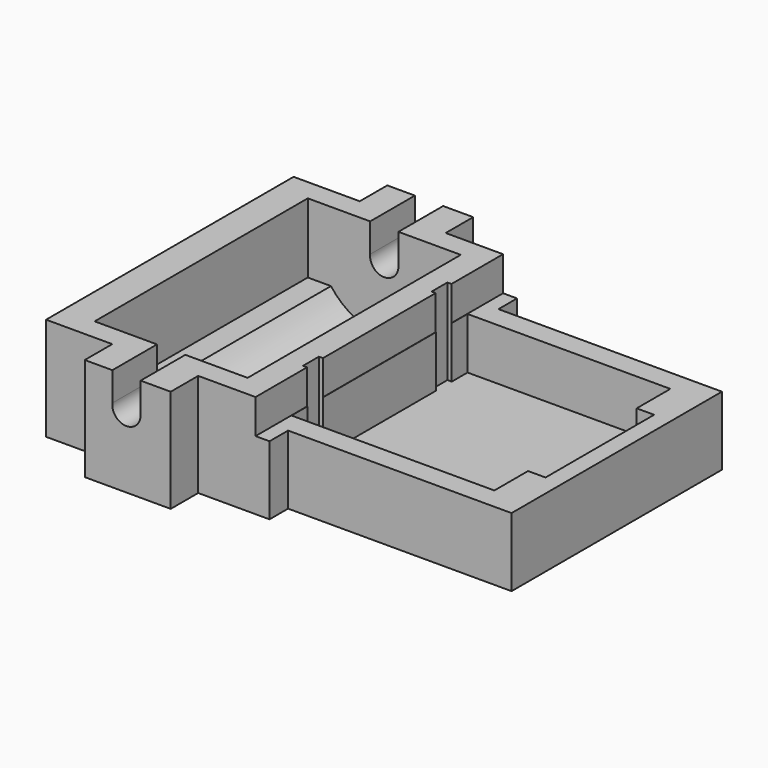
from build123d import *

# Parameters (mm, degrees)
F0_W          = 132.08
F0_H          = 111.76
F1_DEPTH      = 30.48
F3_DEPTH      = 25.4
F5_DEPTH      = 39.37
F5_DEPTH_BACK = 39.37
F7_DEPTH      = 127
F7_DEPTH_BACK = 127
F8_W          = 70.1737586008
F8_H          = 10.16
F9_DEPTH      = 124.52238
F10_W         = 219.0220057964
F10_H         = 191.3975924253
F11_DEPTH     = 40.60273


with BuildPart() as f1:
    # F0 (on Top) → F1 (new body)
    with BuildSketch(Plane.XY):
        Rectangle(F0_W, F0_H)
    extrude(amount=F1_DEPTH)

    # F2 (on face) → F3 (cut)
    with BuildSketch(Plane.XY.offset(30.48)):
        Polygon((55.88, 32.512), (-4.064, 32.512), (-4.064, 26.67), (-5.334, 26.67), (-5.334, 20.828), (-4.064, 20.828), (-4.064, -20.828), (-5.334, -20.828), (-5.334, -26.67), (-4.064, -26.67), (-4.064, -32.512), (55.88, -32.512), (55.88, -20.066), (61.0470063984, -20.066), (61.0470063984, 20.066), (55.88, 20.066), align=None)
    extrude(amount=-F3_DEPTH, mode=Mode.SUBTRACT)

    # F4 (on Front) → F5 (cut, two sides)
    with BuildSketch(Plane.XZ) as f5_sk:
        with BuildLine():
            Line((-56.7663048146, 9.8806022625), (-49.9083048146, 9.8806022625))
            ThreePointArc((-49.9083048146, 9.8806022625), (-34.1603048146, 1.9206995202), (-18.4123048146, 9.8806022625))
            Line((-18.4123048146, 9.8806022625), (-11.5543048146, 16.7386022625))
            Line((-11.5543048146, 16.7386022625), (-11.5543048146, 37.6269482076))
            Line((-11.5543048146, 37.6269482076), (-56.7663048146, 37.6269482076))
            Line((-56.7663048146, 37.6269482076), (-56.7663048146, 9.8806022625))
        make_face()
    extrude(amount=F5_DEPTH, mode=Mode.SUBTRACT)
    extrude(f5_sk.sketch, amount=-F5_DEPTH_BACK, mode=Mode.SUBTRACT)

    # F6 (on Front) → F7 (cut, two sides)
    with BuildSketch(Plane.XZ) as f7_sk:
        with BuildLine():
            Line((-38.3278677172, 31.1981041294), (-38.3278677172, 21.9360575249))
            ThreePointArc((-38.3278677172, 21.9360575249), (-34.4349396554, 17.2967755581), (-29.9718115766, 21.3904675121))
            Line((-29.9718115766, 21.3904675121), (-29.9718115766, 21.5672736871))
            Line((-29.9718115766, 21.5672736871), (-29.9718115766, 31.1981041294))
            Line((-29.9718115766, 31.1981041294), (-38.3278677172, 31.1981041294))
        make_face()
        with BuildLine():
            Line((-29.9718115766, 21.5672736871), (-29.9718115766, 21.3904675121))
            ThreePointArc((-29.9718115766, 21.3904675121), (-29.9708791052, 21.4788705996), (-29.9718115766, 21.5672736871))
        make_face()
    extrude(amount=-F7_DEPTH, mode=Mode.SUBTRACT)
    extrude(f7_sk.sketch, amount=F7_DEPTH_BACK, mode=Mode.SUBTRACT)

    # F8 (on face) → F9 (cut)
    with BuildSketch(Plane.XZ.offset(55.88)):
        with Locations((30.9531206996, 25.4)):
            Rectangle(F8_W, F8_H)
    extrude(amount=-F9_DEPTH, mode=Mode.SUBTRACT)

    # F10 (on face) → F11 (cut)
    with BuildSketch(Plane.XY.offset(30.48)):
        with Locations((0.9173303843, -3.9965510368)):
            Rectangle(F10_W, F10_H)
        Polygon((-66.04, -45.72), (-66.04, 45.72), (-46.482, 45.72), (-46.482, 60.96), (-21.082, 60.96), (-21.082, 45.72), (0, 45.72), (0, 38.862), (67.551702261, 38.862), (67.551702261, -38.862), (0, -38.862), (0, -45.72), (-21.082, -45.72), (-21.082, -60.96), (-46.482, -60.96), (-46.482, -45.72), align=None, mode=Mode.SUBTRACT)
    extrude(amount=-F11_DEPTH, mode=Mode.SUBTRACT)


solid = f1.part
